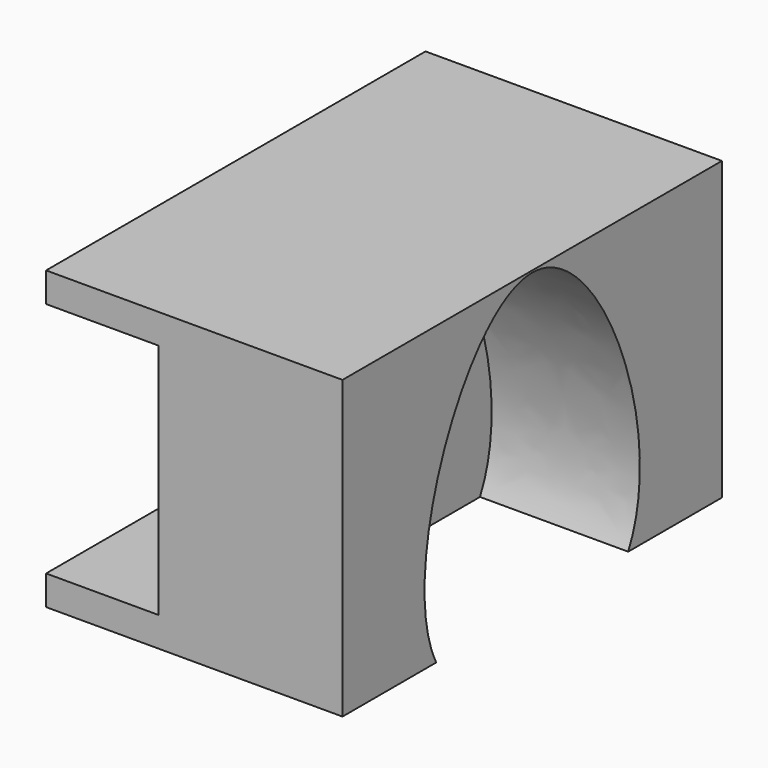
from build123d import *

# Parameters (mm, degrees)
F0_W     = 50
F0_H     = 50
F1_DEPTH = 40
F4_DEPTH = 25
F6_DEPTH = 40.0010001
F7_DEPTH = 40.0010001


with BuildPart() as f1:
    # F0 (on Front) → F1 (new body, symmetric)
    with BuildSketch(Plane.XZ):
        Rectangle(F0_W, F0_H)
    extrude(amount=F1_DEPTH, both=True)

    # F3 (on offset) → F4 (cut)
    with BuildSketch(Plane.YZ.offset(25)):
        with BuildLine():
            Line((20, -25.4437979311), (0, -25.4437979311))
            Line((0, -25.4437979311), (-20, -25.4437979311))
            add(Edge.make_bspline(
                [(20, -25.4437979311), (12.4066961802, -39.0920548923), (-12.4066961802, -39.0920548923), (-20, -25.4437979311)],
                knots=[0.6990551923, 0.6990551923, 0.6990551923, 0.6990551923, 1, 1, 1, 1], degree=3))
        make_face()
        with BuildLine():
            Line((-20, -25.4437979311), (0, -25.4437979311))
            Line((0, -25.4437979311), (20, -25.4437979311))
            add(Edge.make_bspline(
                [(-20, -25.4437979311), (-28.819122854, -9.5922453342), (0, 58.9319309233), (28.819122854, -9.5922453342), (20, -25.4437979311)],
                knots=[0, 0, 0, 0, 0.3495275962, 0.6990551923, 0.6990551923, 0.6990551923, 0.6990551923], degree=3))
        make_face()
    extrude(amount=-F4_DEPTH, mode=Mode.SUBTRACT)

    # F5 (on Front) → F6 (cut, through all)
    with BuildSketch(Plane.XZ):
        Polygon((-6, 20), (-30, 20), (-30, -20), (-6, -20), (-6, 0), align=None)
    extrude(amount=-F6_DEPTH, mode=Mode.SUBTRACT)

    # F5 (on Front) → F7 (cut, through all)
    with BuildSketch(Plane.XZ):
        Polygon((-6, 20), (-30, 20), (-30, -20), (-6, -20), (-6, 0), align=None)
    extrude(amount=F7_DEPTH, mode=Mode.SUBTRACT)


solid = f1.part
